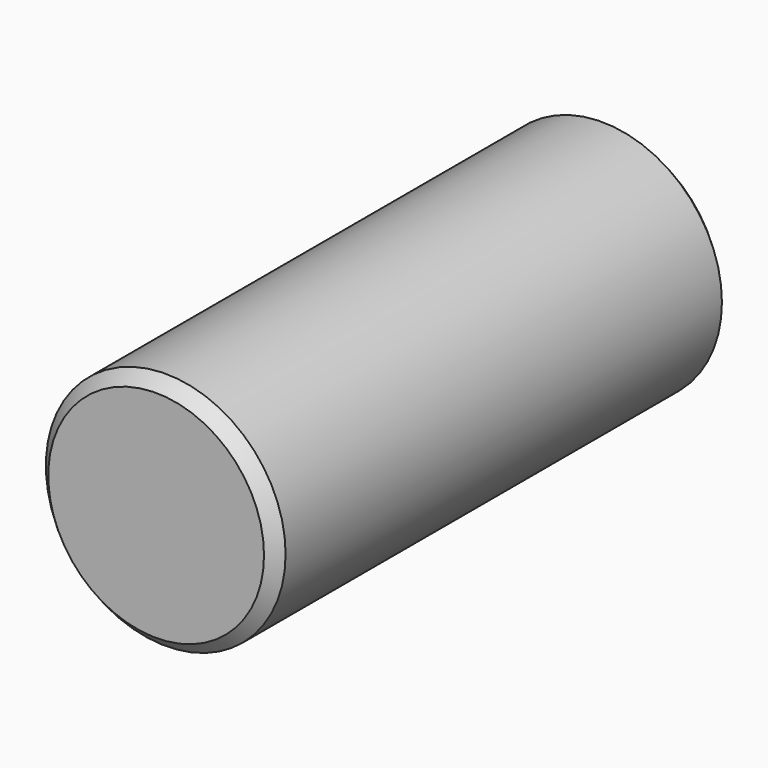
from build123d import *

# Parameters (mm, degrees)
F0_R     = 12.7
F1_DEPTH = 60.325
F2_SIZE2 = 1.27
F2_SIZE  = 1.27


with BuildPart() as f1:
    # F0 (on Front) → F1 (new body)
    with BuildSketch(Plane.XZ):
        Circle(F0_R)
    extrude(amount=-F1_DEPTH)

    # F2
    f2_edges = [f1.edges().sort_by_distance(p)[0] for p in [
        (-12.7, 0, 0),
        (-12.7, 60.325, 0),
    ]]
    chamfer(f2_edges, length=F2_SIZE, length2=F2_SIZE2)


solid = f1.part
